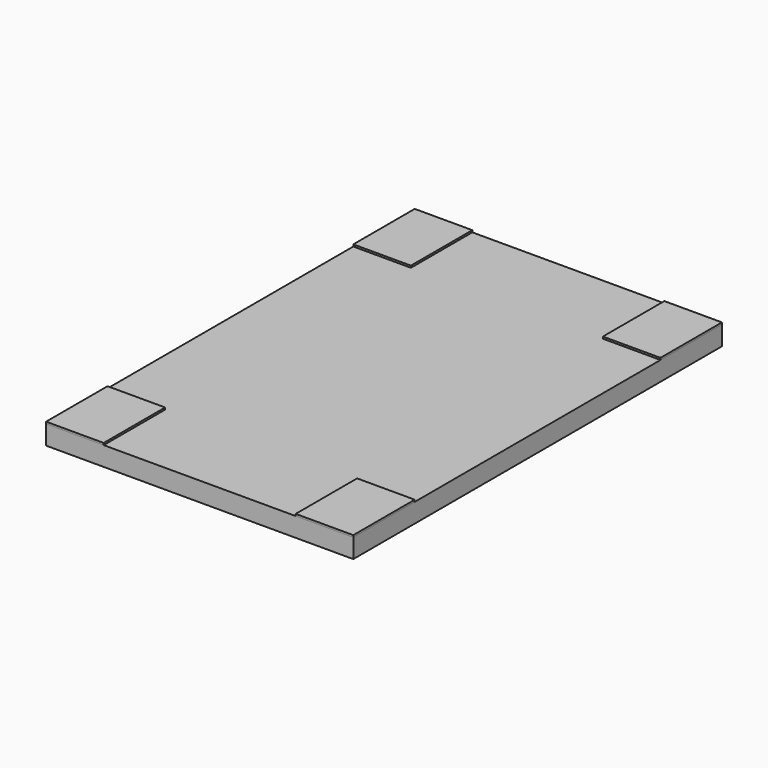
from build123d import *

# Parameters (mm, degrees)
F0_W     = 3
F0_H     = 4
F1_DEPTH = 1
F2_DEPTH = 0.1


with BuildPart() as f1:
    # F0 (on Top) → F1 (new body)
    with BuildSketch(Plane.XY):
        Polygon((5, 8), (5, 12), (-5, 12), (-5, 8), (-8, 8), (-8, -8), (-5, -8), (-5, -12), (5, -12), (5, -8), (8, -8), (8, 8), align=None)
        with Locations((-6.5, 10)):
            Rectangle(F0_W, F0_H)
        with Locations((6.5, 10)):
            Rectangle(F0_W, F0_H)
        with Locations((6.5, -10)):
            Rectangle(F0_W, F0_H)
        with Locations((-6.5, -10)):
            Rectangle(F0_W, F0_H)
    extrude(amount=-F1_DEPTH)


with BuildPart() as f2:
    # F0 (on Top) → F2 (new body)
    with BuildSketch(Plane.XY):
        with Locations((-6.5, -10)):
            Rectangle(F0_W, F0_H)
        with Locations((6.5, -10)):
            Rectangle(F0_W, F0_H)
        with Locations((6.5, 10)):
            Rectangle(F0_W, F0_H)
        with Locations((-6.5, 10)):
            Rectangle(F0_W, F0_H)
    extrude(amount=F2_DEPTH)


solid = Compound([f1.part, f2.part])
